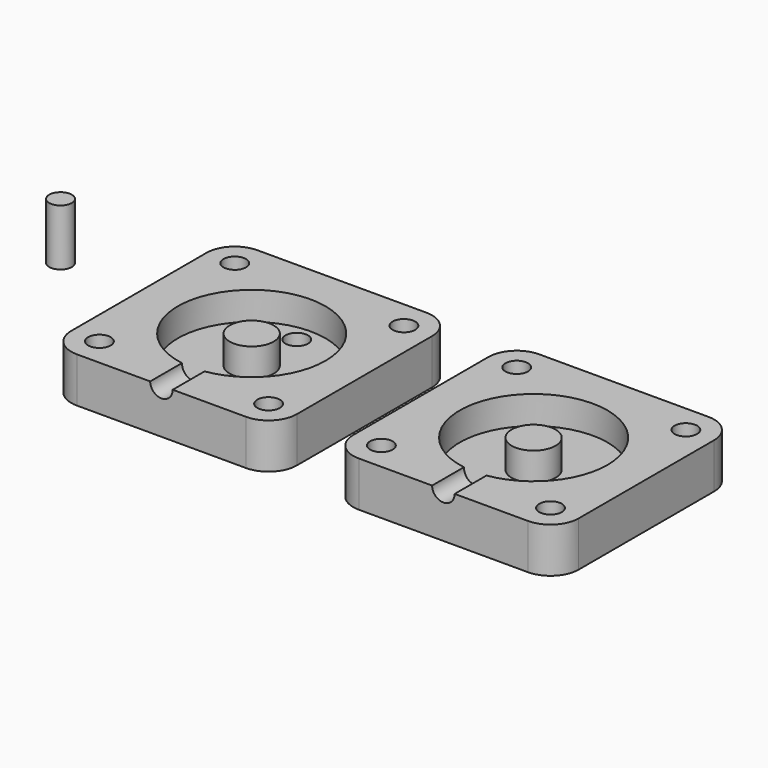
from build123d import *

# Parameters (mm, degrees)
F1_DEPTH  = 8
F2_R      = 13.1
F2_R_2    = 3.9
F2_R_3    = 2
F3_DEPTH  = 5
F4_R      = 2
F5_DEPTH  = 10
F7_R      = 2
F8_DEPTH  = 3
F9_R      = 2
F10_DEPTH = 10


with BuildPart() as f1:
    # F0 (on Top) → F1 (new body)
    with BuildSketch(Plane.XY):
        with BuildLine():
            Line((15, 20), (-15, 20))
            ThreePointArc((-15, 20), (-18.5355339059, 18.5355339059), (-20, 15))
            Line((-20, 15), (-20, -15))
            ThreePointArc((-20, -15), (-18.5355339059, -18.5355339059), (-15, -20))
            Line((-15, -20), (15, -20))
            ThreePointArc((15, -20), (18.5355339059, -18.5355339059), (20, -15))
            Line((20, -15), (20, 15))
            ThreePointArc((20, 15), (18.5355339059, 18.5355339059), (15, 20))
        make_face()
    extrude(amount=-F1_DEPTH)

    # F2 (on face) → F3 (cut)
    with BuildSketch(Plane.XY):
        Circle(F2_R)
        Circle(F2_R_2, mode=Mode.SUBTRACT)
        with Locations((-15, -15)):
            Circle(F2_R_3)
        with Locations((-15, 15)):
            Circle(F2_R_3)
        with Locations((15, 15)):
            Circle(F2_R_3)
        with Locations((15, -15)):
            Circle(F2_R_3)
    extrude(amount=-F3_DEPTH, mode=Mode.SUBTRACT)

    # F4 (on face) → F5 (cut)
    with BuildSketch(Plane.XZ.offset(20)):
        Circle(F4_R)
    extrude(amount=-F5_DEPTH, mode=Mode.SUBTRACT)


with BuildPart() as f6_1:
    # F6: copy of F1
    add(f1.part.moved(Location((50, 0, 0))))


with BuildPart() as f1_1:
    add(f1.part)

    # F7 (on face) → F8 (cut)
    with BuildSketch(Plane(origin=(0, 0, -8), x_dir=(1, 0, 0), z_dir=(0, 0, -1))):
        with Locations((0, -10)):
            Circle(F7_R)
    extrude(amount=-F8_DEPTH, mode=Mode.SUBTRACT)


with BuildPart() as f10:
    # F9 (on Top) → F10 (new body)
    with BuildSketch(Plane.XY):
        with Locations((-33.9, 0)):
            Circle(F9_R)
    extrude(amount=F10_DEPTH)


solid = Compound([f6_1.part, f1_1.part, f10.part])
